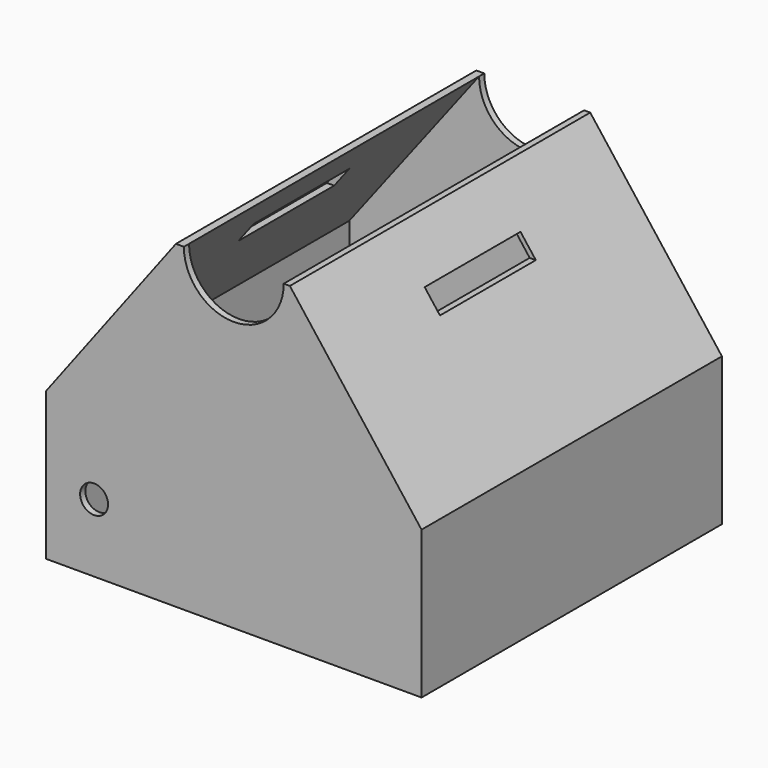
from build123d import *

# Parameters (mm, degrees)
F0_W     = 94
F0_H     = 94
F0_W_2   = 90
F0_H_2   = 90.7552093267
F0_R     = 35
F1_DEPTH = 2
F2_DEPTH = 80
F3_R     = 3.5
F4_DEPTH = 100
F5_DEPTH = 150
F6_DEPTH = 94
F7_W     = 30
F7_H     = 5
F8_DEPTH = 100


with BuildPart() as f1:
    # F0 (on Top) → F1 (new body)
    with BuildSketch(Plane.XY):
        Rectangle(F0_W, F0_H)
        Rectangle(F0_W_2, F0_H_2, mode=Mode.SUBTRACT)
        Rectangle(F0_W_2, F0_H_2)
        Circle(F0_R, mode=Mode.SUBTRACT)
    extrude(amount=F1_DEPTH)

    # F0 (on Top) → F2 (join)
    with BuildSketch(Plane.XY):
        Rectangle(F0_W, F0_H)
        Rectangle(F0_W_2, F0_H_2, mode=Mode.SUBTRACT)
    extrude(amount=F2_DEPTH)

    # F3 (on face) → F4 (cut)
    with BuildSketch(Plane.XZ.offset(47)):
        with BuildLine():
            ThreePointArc((-12.5, 80), (0, 67.5), (12.5, 80))
            Line((12.5, 80), (-12.5, 80))
        make_face()
        with Locations((-34.9789150059, 17.0391555876)):
            Circle(F3_R)
    extrude(amount=-F4_DEPTH, mode=Mode.SUBTRACT)

    # F3 (on face) → F5 (cut)
    with BuildSketch(Plane.XZ.offset(47)):
        Polygon((-47, 37), (-14.5, 80), (-47, 80), align=None)
        Polygon((47, 80), (14.0333333333, 80), (47, 37), align=None)
    extrude(amount=-F5_DEPTH, mode=Mode.SUBTRACT)

    # F3 (on face) → F6 (join)
    with BuildSketch(Plane.XZ.offset(47)):
        Polygon((-47, 35), (-12.5, 80), (-14.5, 80), (-47, 37), align=None)
        Polygon((14.0333333333, 80), (12.5, 80), (47, 35), (47, 37), align=None)
    extrude(amount=-F6_DEPTH)

    # F7 (on face) → F8 (cut)
    with BuildSketch(Plane.YZ.offset(47)):
        with Locations((0, 66.8776729703)):
            Rectangle(F7_W, F7_H)
    extrude(amount=-F8_DEPTH, mode=Mode.SUBTRACT)


solid = f1.part
